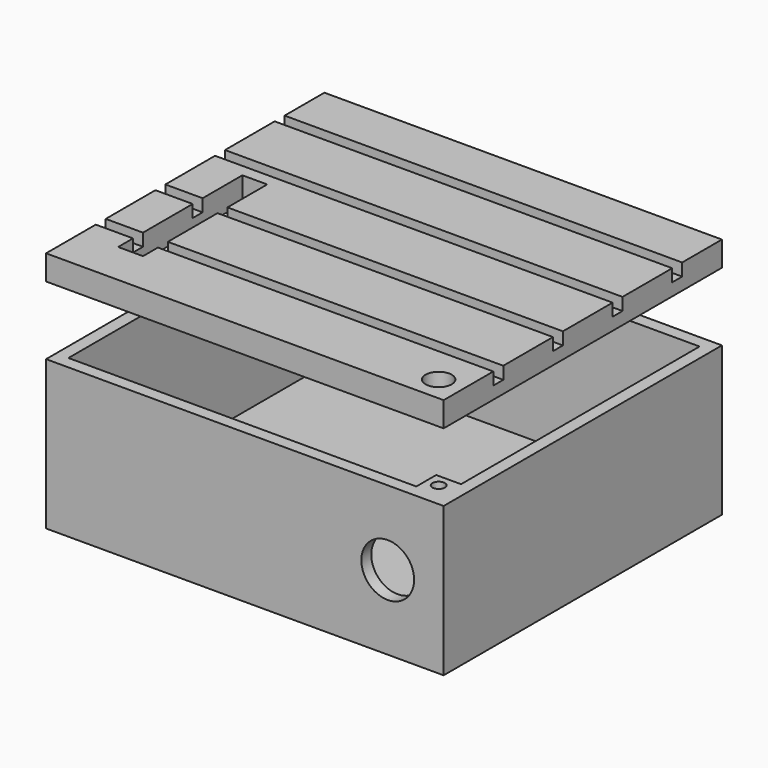
from build123d import *

# Parameters (mm, degrees)
CYLINDER001_R     = 2.1
CYLINDER001_DEPTH = 10
BOX005_W          = 4
BOX005_H          = 25
BOX005_DEPTH      = 10
BOX006_W          = 64
BOX006_H          = 10
BOX006_DEPTH      = 2
BOX007_W          = 64
BOX007_H          = 8
BOX007_DEPTH      = 2
BOX008_W          = 64
BOX008_H          = 10
BOX008_DEPTH      = 2
BOX009_W          = 64
BOX009_H          = 10
BOX009_DEPTH      = 2
BOX010_W          = 64
BOX010_H          = 10
BOX010_DEPTH      = 2
BOX002_W          = 64
BOX002_H          = 56
BOX002_DEPTH      = 2
BOX003_W          = 5
BOX003_H          = 5
BOX003_DEPTH      = 5
CYLINDER004_R     = 2.2
CYLINDER004_DEPTH = 10
CYLINDER003_R     = 2.2
CYLINDER003_DEPTH = 10
CYLINDER002_R     = 1
CYLINDER002_DEPTH = 10
BOX004_W          = 5
BOX004_H          = 5
BOX004_DEPTH      = 5
CYLINDER_R        = 4.25
CYLINDER_DEPTH    = 10
BOX001_W          = 60
BOX001_H          = 52
BOX001_DEPTH      = 24
BOX_W             = 64
BOX_H             = 56
BOX_DEPTH         = 24


with BuildPart() as cylinder001:
    # Cylinder001 → Cylinder001 (new body)
    with BuildSketch(Plane(origin=(60, 4, 30), x_dir=(1, 0, 0), z_dir=(0, 0, 1))):
        Circle(CYLINDER001_R)
    extrude(amount=CYLINDER001_DEPTH)


with BuildPart() as cube005:
    # Box005 → Box005 (new body)
    with BuildSketch(Plane(origin=(6, 7, 33), x_dir=(1, 0, 0), z_dir=(0, 0, 1))):
        with Locations((2, 12.5)):
            Rectangle(BOX005_W, BOX005_H)
    extrude(amount=BOX005_DEPTH)


with BuildPart() as cube006:
    # Box006 → Box006 (new body)
    with BuildSketch(Plane.XY.offset(36)):
        with Locations((32, 5)):
            Rectangle(BOX006_W, BOX006_H)
    extrude(amount=BOX006_DEPTH)


with BuildPart() as cube007:
    # Box007 → Box007 (new body)
    with BuildSketch(Plane(origin=(0, 48, 36), x_dir=(1, 0, 0), z_dir=(0, 0, 1))):
        with Locations((32, 4)):
            Rectangle(BOX007_W, BOX007_H)
    extrude(amount=BOX007_DEPTH)


with BuildPart() as cube008:
    # Box008 → Box008 (new body)
    with BuildSketch(Plane(origin=(0, 12, 36), x_dir=(1, 0, 0), z_dir=(0, 0, 1))):
        with Locations((32, 5)):
            Rectangle(BOX008_W, BOX008_H)
    extrude(amount=BOX008_DEPTH)


with BuildPart() as cube009:
    # Box009 → Box009 (new body)
    with BuildSketch(Plane(origin=(0, 24, 36), x_dir=(1, 0, 0), z_dir=(0, 0, 1))):
        with Locations((32, 5)):
            Rectangle(BOX009_W, BOX009_H)
    extrude(amount=BOX009_DEPTH)


with BuildPart() as cube010:
    # Box010 → Box010 (new body)
    with BuildSketch(Plane(origin=(0, 36, 36), x_dir=(1, 0, 0), z_dir=(0, 0, 1))):
        with Locations((32, 5)):
            Rectangle(BOX010_W, BOX010_H)
    extrude(amount=BOX010_DEPTH)


with BuildPart() as cube002:
    # Box002 → Box002 (new body)
    with BuildSketch(Plane.XY.offset(34)):
        with Locations((32, 28)):
            Rectangle(BOX002_W, BOX002_H)
    extrude(amount=BOX002_DEPTH)


with BuildPart() as cut005:
    # Box003 → Box003 (new body)
    with BuildSketch(Plane(origin=(2, 49, 31), x_dir=(1, 0, 0), z_dir=(0, 0, 1))):
        with Locations((2.5, 2.5)):
            Rectangle(BOX003_W, BOX003_H)
    extrude(amount=BOX003_DEPTH)

    # Fusion: union Cube006, Cube007, Cube008, Cube009, Cube010, Cube002
    add(cube006.part)
    add(cube007.part)
    add(cube008.part)
    add(cube009.part)
    add(cube010.part)
    add(cube002.part)

    # Cut003: cut Cube005
    add(cube005.part, mode=Mode.SUBTRACT)


with BuildPart() as cut005_1:
    # Cut003 placement: moved
    add(cut005.part.moved(Location((0, 0, 1))))

    # Cut005: cut Cylinder001
    add(cylinder001.part, mode=Mode.SUBTRACT)


with BuildPart() as cylinder004:
    # Cylinder004 → Cylinder004 (new body)
    with BuildSketch(Plane(origin=(8, 27, -1), x_dir=(1, 0, 0), z_dir=(0, 0, 1))):
        Circle(CYLINDER004_R)
    extrude(amount=CYLINDER004_DEPTH)


with BuildPart() as cylinder003:
    # Cylinder003 → Cylinder003 (new body)
    with BuildSketch(Plane(origin=(56, 27, -1), x_dir=(1, 0, 0), z_dir=(0, 0, 1))):
        Circle(CYLINDER003_R)
    extrude(amount=CYLINDER003_DEPTH)


with BuildPart() as cylinder002:
    # Cylinder002 → Cylinder002 (new body)
    with BuildSketch(Plane(origin=(60, 4, 20), x_dir=(1, 0, 0), z_dir=(0, 0, 1))):
        Circle(CYLINDER002_R)
    extrude(amount=CYLINDER002_DEPTH)


with BuildPart() as cube004:
    # Box004 → Box004 (new body)
    with BuildSketch(Plane(origin=(58, 1, 19), x_dir=(1, 0, 0), z_dir=(0, 0, 1))):
        with Locations((2.5, 2.5)):
            Rectangle(BOX004_W, BOX004_H)
    extrude(amount=BOX004_DEPTH)


with BuildPart() as cylinder:
    # Cylinder → Cylinder (new body)
    with BuildSketch(Plane(origin=(55, 4, 12), x_dir=(1, 0, 0), z_dir=(0, -1, 0))):
        Circle(CYLINDER_R)
    extrude(amount=CYLINDER_DEPTH)


with BuildPart() as cube001:
    # Box001 → Box001 (new body)
    with BuildSketch(Plane(origin=(2, 2, 2), x_dir=(1, 0, 0), z_dir=(0, 0, 1))):
        with Locations((30, 26)):
            Rectangle(BOX001_W, BOX001_H)
    extrude(amount=BOX001_DEPTH)


with BuildPart() as cut007:
    # Box → Box (new body)
    with BuildSketch(Plane.XY):
        with Locations((32, 28)):
            Rectangle(BOX_W, BOX_H)
    extrude(amount=BOX_DEPTH)

    # Cut: cut Cube001
    add(cube001.part, mode=Mode.SUBTRACT)

    # Cut001: cut Cylinder
    add(cylinder.part, mode=Mode.SUBTRACT)

    # Fusion001: union Cube004
    add(cube004.part)

    # Cut004: cut Cylinder002
    add(cylinder002.part, mode=Mode.SUBTRACT)

    # Cut006: cut Cylinder003
    add(cylinder003.part, mode=Mode.SUBTRACT)

    # Cut007: cut Cylinder004
    add(cylinder004.part, mode=Mode.SUBTRACT)


solid = Compound([cut005_1.part, cut007.part])
